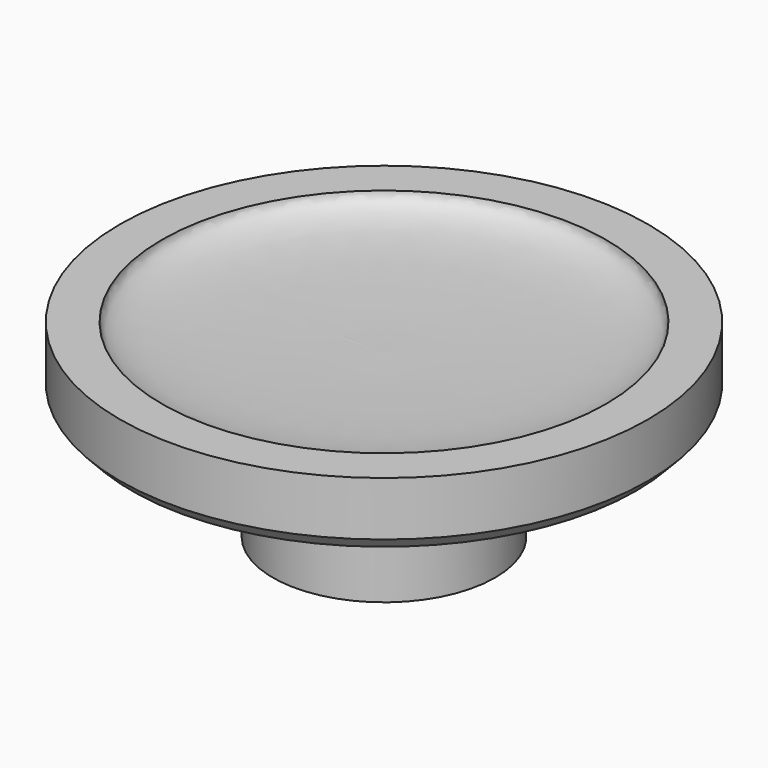
from build123d import *

# Parameters (mm, degrees)
F2_R     = 5.05
F3_DEPTH = 1
F4_R     = 4
F5_DEPTH = 3.4


with BuildPart() as f1:
    # F0 (on Front) → F1 (revolve)
    with BuildSketch(Plane.XZ):
        with BuildLine():
            Line((-7.9909514666, 2.4), (-9.5, 2.4))
            Line((-9.5, 2.4), (-9.5, 0.4530665231))
            Line((-9.5, 0.4530665231), (-9.0727129846, 0))
            Line((-9.0727129846, 0), (0, 0))
            Line((0, 0), (0, 1.4471871546))
            add(Edge.make_bspline(
                [(-7.9909514666, 2.4), (-7.9909515723, 1.617711094), (-2.9710125266, 1.4720783209), (-1.7912473995, 1.4308859827), (0, 1.4471871546)],
                knots=[0, 0, 0, 0, 0.5112998469, 1, 1, 1, 1], degree=3))
        make_face()
    revolve(axis=Axis((0, 0, 1.4471871546), (0, 0, -1)))

    # F2 (on face) → F3 (join)
    with BuildSketch(Plane(origin=(0, 0, 0), x_dir=(1, 0, 0), z_dir=(0, 0, -1))):
        Circle(F2_R)
    extrude(amount=F3_DEPTH)

    # F4 (on face) → F5 (join)
    with BuildSketch(Plane(origin=(0, 0, -1), x_dir=(1, 0, 0), z_dir=(0, 0, -1))):
        Circle(F4_R)
    extrude(amount=F5_DEPTH)


solid = f1.part
